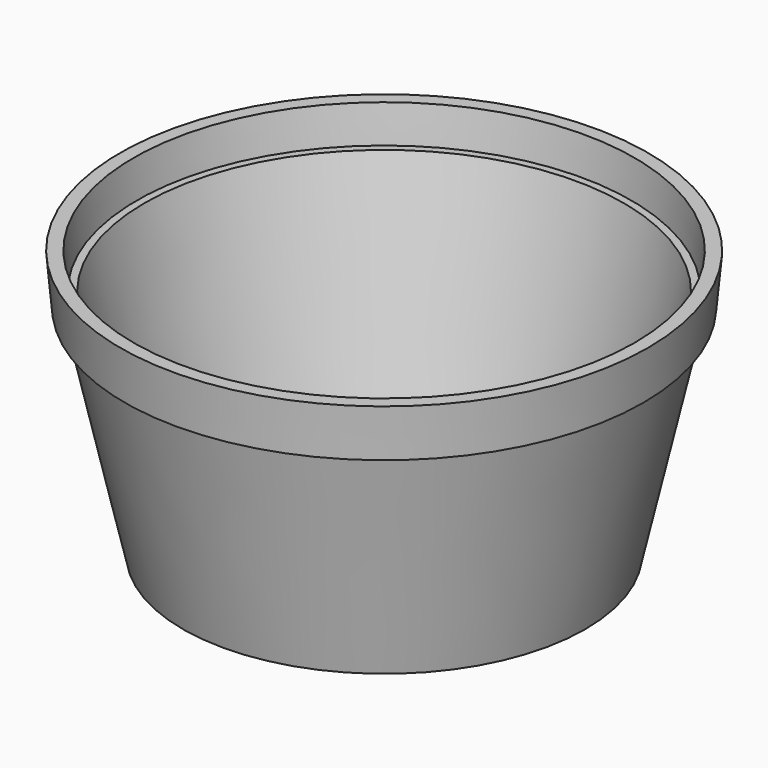
from build123d import *

# Parameters (mm, degrees)
F2_T = -1.5
F3_R = 3


with BuildPart() as f1:
    # F0 (on Front) → F1 (revolve)
    with BuildSketch(Plane.XZ):
        Polygon((-22.9846419008, 33.67621309), (-22.9846419008, 3.67621309), (-0.4846419008, 3.67621309), (5.0033481255, 28.0664153333), (6.0033481255, 28.0664153333), (6.5153195148, 33.6285006523), align=None)
    revolve(axis=Axis((-22.9846419008, 0, 18.67621309), (0, 0, -1)))

    # F2
    f2_openings = [f1.faces().sort_by_distance(p)[0] for p in [
        (-37.734623, 0, 33.652357),
    ]]
    offset(amount=F2_T, openings=f2_openings, kind=Kind.INTERSECTION)

    # F3
    f3_edges = [f1.edges().sort_by_distance(p)[0] for p in [
        (-44.284651, 0, 5.176213),
    ]]
    fillet(f3_edges, radius=F3_R)


solid = f1.part
